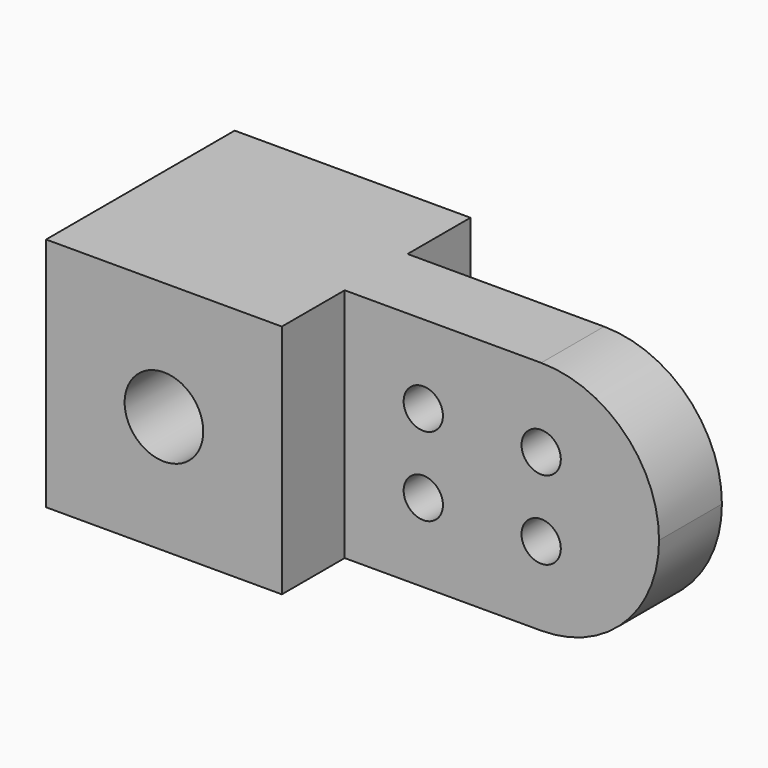
from build123d import *

# Parameters (mm, degrees)
F0_R     = 3.175
F1_DEPTH = 38.1
F2_W     = 50.8
F2_H     = 12.7
F3_DEPTH = 38.101
F4_R     = 6.35
F5_DEPTH = 38.101


with BuildPart() as f1:
    # F0 (on Front) → F1 (new body)
    with BuildSketch(Plane.XZ):
        Polygon((0, 38.1), (0, 0), (38.1, 0), (38.1, 19.05), (38.1, 38.1), align=None)
        with BuildLine():
            Line((69.85, 38.1), (38.1, 38.1))
            Line((38.1, 38.1), (38.1, 19.05))
            Line((38.1, 19.05), (88.9, 19.05))
            ThreePointArc((88.9, 19.05), (83.320384, 32.520384), (69.85, 38.1))
        make_face()
        with Locations((50.8, 25.4)):
            Circle(F0_R, mode=Mode.SUBTRACT)
        with Locations((69.85, 25.4)):
            Circle(F0_R, mode=Mode.SUBTRACT)
        with BuildLine():
            Line((38.1, 19.05), (38.1, 0))
            Line((38.1, 0), (69.85, 0))
            ThreePointArc((69.85, 0), (83.320384, 5.579616), (88.9, 19.05))
            Line((88.9, 19.05), (38.1, 19.05))
        make_face()
        with Locations((50.8, 12.7)):
            Circle(F0_R, mode=Mode.SUBTRACT)
        with Locations((69.85, 12.7)):
            Circle(F0_R, mode=Mode.SUBTRACT)
    extrude(amount=F1_DEPTH)

    # F2 (on Top) → F3 (cut, through all)
    with BuildSketch(Plane.XY):
        with Locations((63.5, -6.35)):
            Rectangle(F2_W, F2_H)
        with Locations((63.5, -31.75)):
            Rectangle(F2_W, F2_H)
        with Locations((63.5, -6.35)):
            Rectangle(F2_W, F2_H)
        with Locations((63.5, -31.75)):
            Rectangle(F2_W, F2_H)
    extrude(amount=F3_DEPTH, mode=Mode.SUBTRACT)

    # F4 (on face) → F5 (cut, through all)
    with BuildSketch(Plane.XZ.offset(38.1)):
        with Locations((19.05, 19.05)):
            Circle(F4_R)
    extrude(amount=-F5_DEPTH, mode=Mode.SUBTRACT)


solid = f1.part
